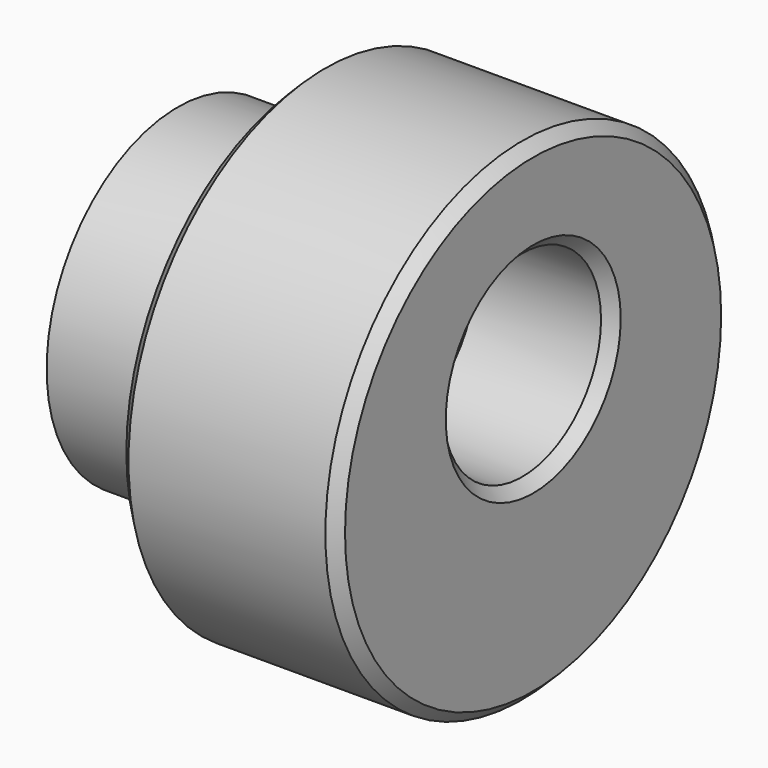
from build123d import *

# Parameters (mm, degrees)
SKETCH005_R             = 6
SKETCH005_R_2           = 2.2
PAD002_DEPTH            = 5
SKETCH006_R             = 9
SKETCH006_R_2           = 2.2
PAD003_DEPTH            = 8
SKETCH007_R             = 3.6
POCKET_DEPTH            = 5
CHAMFER002_SIZE         = 0.4
BODY002_PLACEMENT_ANGLE = 90


with BuildPart() as part:
    # Sketch005 → Pad002 (new body)
    with BuildSketch(Plane.XZ):
        with Locations((66.64711, 33.3637672875)):
            Circle(SKETCH005_R)
        with Locations((66.64711, 34.8637672875)):
            Circle(SKETCH005_R_2, mode=Mode.SUBTRACT)
    extrude(amount=PAD002_DEPTH)

    # Sketch006 (on Face4 of Pad002) → Pad003 (join)
    with BuildSketch(Plane.XZ.offset(5)):
        with Locations((66.641708, 33.373905)):
            Circle(SKETCH006_R)
        with Locations((66.641708, 34.873905)):
            Circle(SKETCH006_R_2, mode=Mode.SUBTRACT)
    extrude(amount=PAD003_DEPTH)

    # Sketch007 (on Face8 of Pad003) → Pocket (cut)
    with BuildSketch(Plane.XZ.offset(13)):
        with Locations((66.648621, 35.148872)):
            Circle(SKETCH007_R)
    extrude(amount=-POCKET_DEPTH, mode=Mode.SUBTRACT)

    # Chamfer002
    chamfer002_edges = [part.edges().sort_by_distance(p)[0] for p in [
        (57.641708, -13, 33.373905),
        (57.641708, -5, 33.373905),
        (63.048621, -13, 35.148872),
    ]]
    chamfer(chamfer002_edges, length=CHAMFER002_SIZE)


with BuildPart() as part_1:
    # Body001 placement: moved
    add(part.part.moved(Location((-1, 0, 0))))


with BuildPart() as part_2:
    # Clone placement: moved
    add(part_1.part.moved(Location((1, 0, 0))))


with BuildPart() as part_3:
    # Body002 placement: moved
    add(part_2.part.moved(Location((94, -15.33, -2.61))).rotate(Axis((94, -15.33, -2.61), (0, 0, 1)), BODY002_PLACEMENT_ANGLE))


solid = part_3.part
